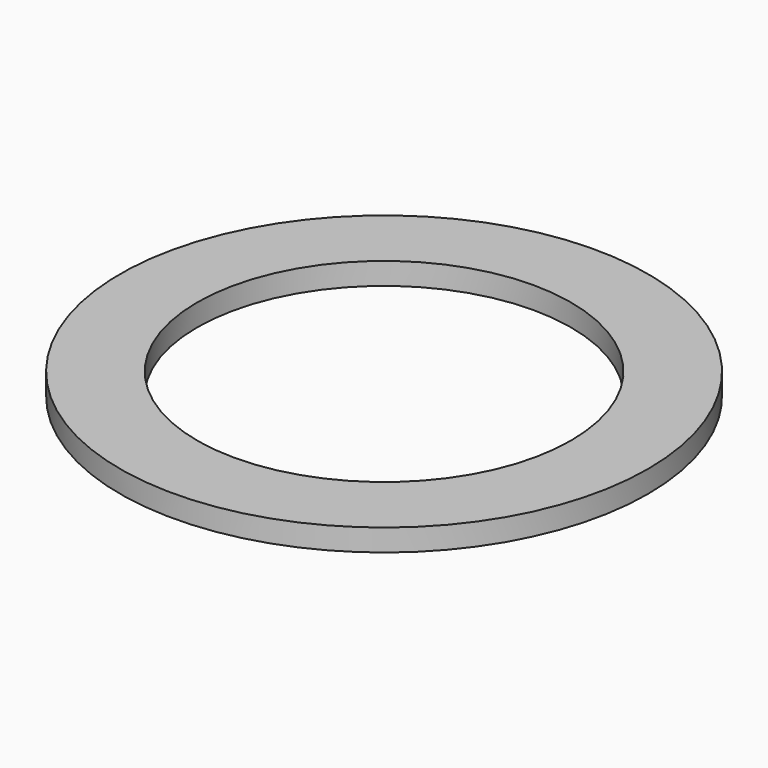
from build123d import *

# Parameters (mm, degrees)
SKETCH_R   = 12
SKETCH_R_2 = 8.5
PAD_DEPTH  = 1


with BuildPart() as part:
    # Sketch → Pad (new body)
    with BuildSketch(Plane.XY):
        Circle(SKETCH_R)
        Circle(SKETCH_R_2, mode=Mode.SUBTRACT)
    extrude(amount=PAD_DEPTH)


solid = part.part
